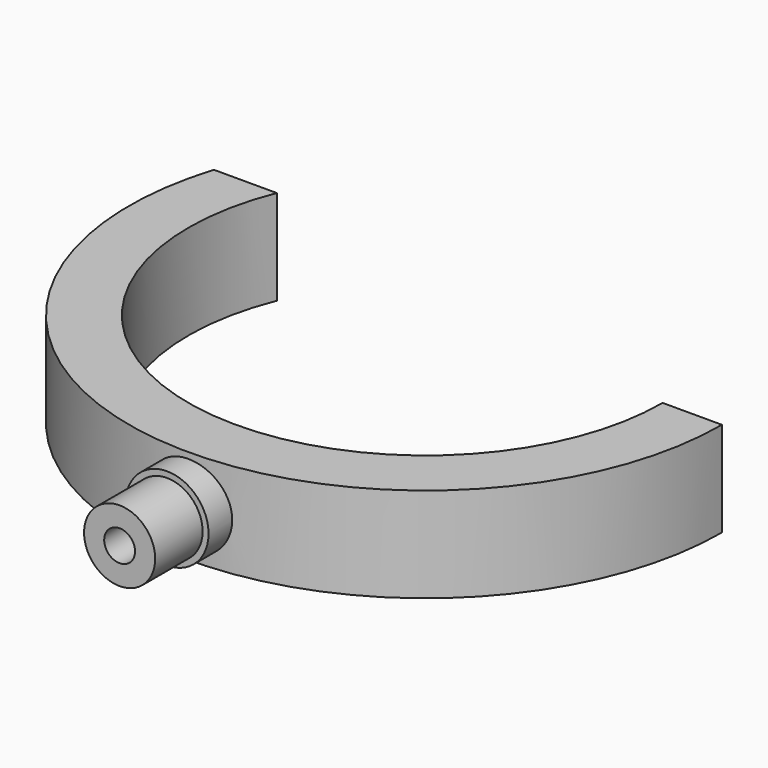
from build123d import *

# Parameters (mm, degrees)
PAD_DEPTH     = 8
SKETCH002_R   = 7
PAD001_DEPTH  = 4.5
POCKET_DEPTH  = 5
SKETCH005_R   = 6
SKETCH005_R_2 = 2.6
PAD002_DEPTH  = 10


with BuildPart() as part:
    # Sketch001 → Pad (new body, symmetric)
    with BuildSketch(Plane.XY):
        with BuildLine():
            ThreePointArc((-37.080992, 65), (-7.64069, 10.736533), (40, 50))
            Line((40, 50), (50, 50))
            ThreePointArc((-47.69696, 65), (-7.587885, 0.579114), (50, 50))
            Line((-47.69696, 65), (-37.080992, 65))
        make_face()
    extrude(amount=PAD_DEPTH, both=True)

    # Sketch002 → Pad001 (join, symmetric)
    with BuildSketch(Plane.XZ):
        Circle(SKETCH002_R)
    extrude(amount=PAD001_DEPTH, both=True)

    # Sketch004 (on Face8 of Pad001) → Pocket (cut)
    with BuildSketch(Plane.XZ.offset(4.5)):
        with BuildLine():
            Line((-1.532971, 2.1), (1.532971, 2.1))
            ThreePointArc((1.532971, -2.1), (2.6, 0), (1.532971, 2.1))
            Line((-1.532971, -2.1), (1.532971, -2.1))
            ThreePointArc((-1.532971, 2.1), (-2.6, 0), (-1.532971, -2.1))
        make_face()
    extrude(amount=-POCKET_DEPTH, mode=Mode.SUBTRACT)

    # Sketch005 (on Face8 of Pocket) → Pad002 (join)
    with BuildSketch(Plane.XZ.offset(4.5)):
        Circle(SKETCH005_R)
        Circle(SKETCH005_R_2, mode=Mode.SUBTRACT)
    extrude(amount=PAD002_DEPTH)


solid = part.part
